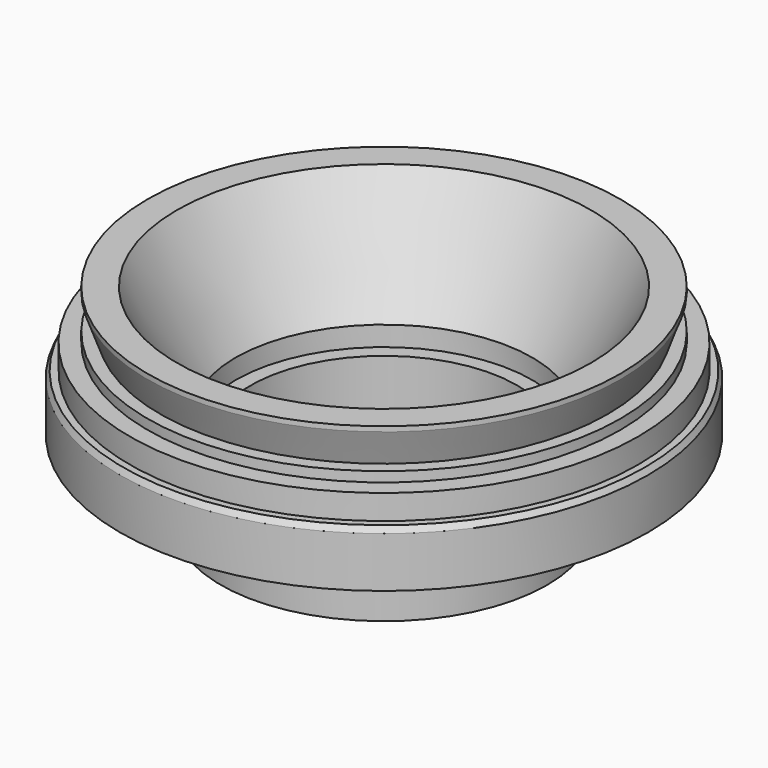
from build123d import *


with BuildPart() as f1:
    # F0 (on Front) → F1 (revolve)
    with BuildSketch(Plane.XZ):
        Polygon((23.9, -22.8), (20.929493, -22.8), (15, -34), (15, -36), (13.5, -36), (13.5, -44), (16.5, -44), (16.5, -37.5), (18, -36), (26.7, -36), (26.7, -30.9), (26.4, -30.3), (25.7, -30.3), (25.7, -27.8), (23.9, -27.8), (23.9, -26.8), (22.626104, -26.8), (23.9, -23.3), align=None)
    revolve(axis=Axis((0, 0, -9.429786), (0, 0, -1)))


solid = f1.part
